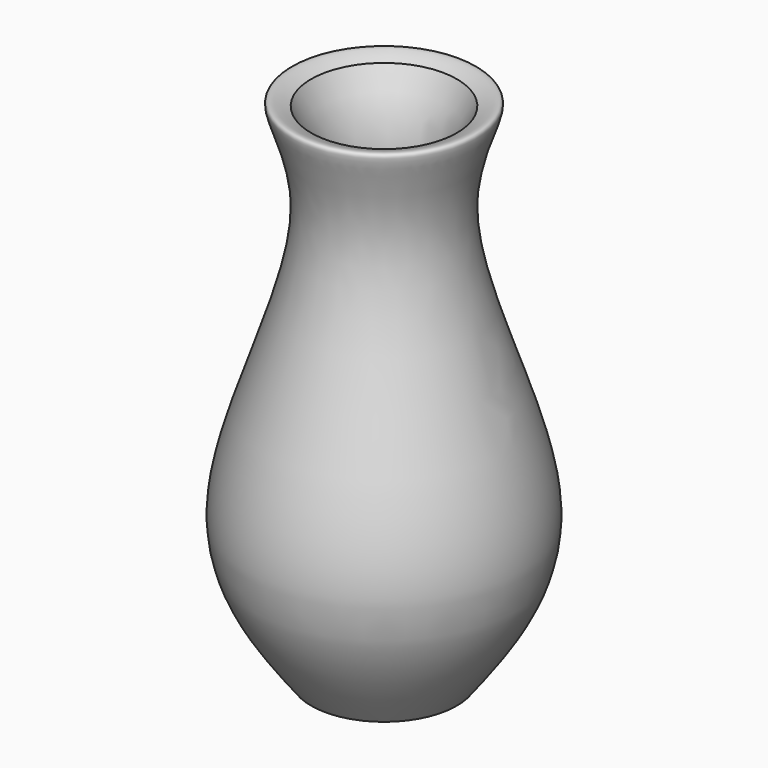
from build123d import *


with BuildPart() as f1:
    # F0 (on Right) → F1 (revolve)
    with BuildSketch(Plane.YZ):
        with BuildLine():
            Line((25.4, 7.3267915286), (25.4, 0))
            Line((25.4, 0), (50.8, 0))
            add(Edge.make_bspline(
                [(50.8, 0), (62.6459781361, 15.5681641214), (89.8454594781, 51.3141350056), (37.1638323467, 140.0003231688), (63.0720426014, 181.0875784903), (53.7646428619, 176.9834506988), (50.8, 175.6761819124)],
                knots=[0, 0, 0, 0, 0.2951913805, 0.6777872079, 0.8973670541, 1, 1, 1, 1], degree=3))
            add(Edge.make_bspline(
                [(50.8, 175.6761819124), (46.7172199929, 167.6988816484), (35.3528302699, 145.494121906), (78.688838079, 51.1460123228), (58.9605766873, 20.1487710839), (50.8, 7.3267915286)],
                knots=[0, 0, 0, 0, 0.2474217498, 0.6886967177, 1, 1, 1, 1], degree=3))
            Line((50.8, 7.3267915286), (25.4, 7.3267915286))
        make_face()
    revolve(axis=Axis((0, 25.4, 3.6633957643), (0, 0, -1)))


solid = f1.part
